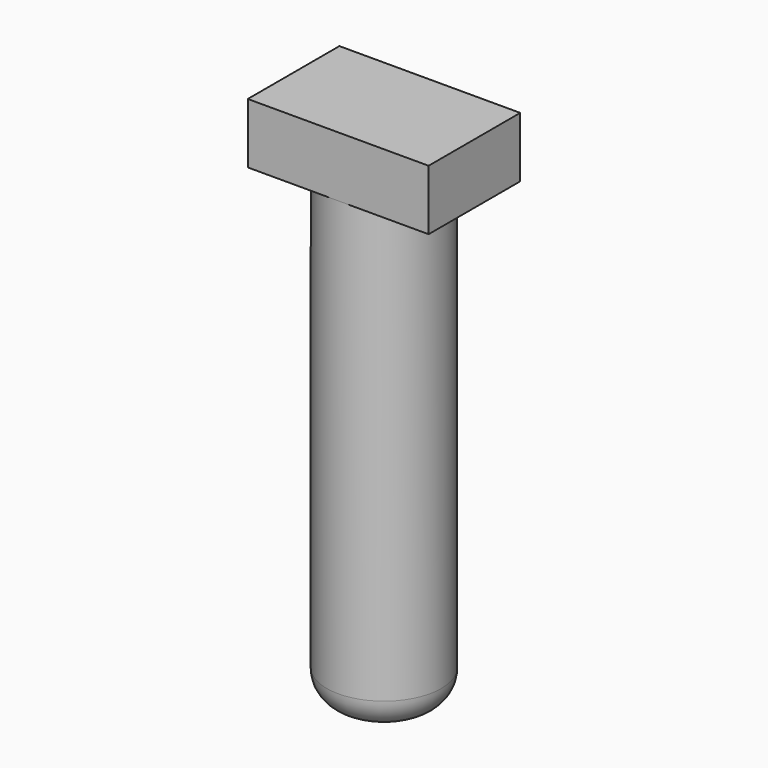
from build123d import *

# Parameters (mm, degrees)
SKETCH029_W  = 6
SKETCH029_H  = 3.8
PAD012_DEPTH = 2
SKETCH033_R  = 1.9
PAD016_DEPTH = 15.4
FILLET012_R  = 1


with BuildPart() as part:
    # Sketch029 → Pad012 (new body)
    with BuildSketch(Plane.XY.offset(13.4)):
        with Locations((1.7, -30.5)):
            Rectangle(SKETCH029_W, SKETCH029_H)
    extrude(amount=PAD012_DEPTH)

    # Sketch033 (on Face5 of Pad012) → Pad016 (join)
    with BuildSketch(Plane(origin=(0, 0, 13.4), x_dir=(1, 0, 0), z_dir=(0, 0, -1))):
        with Locations((1.7, 30.5)):
            Circle(SKETCH033_R)
    extrude(amount=PAD016_DEPTH)

    # Fillet012
    fillet012_edges = [part.edges().sort_by_distance(p)[0] for p in [
        (-0.2, -30.5, -2),
    ]]
    fillet(fillet012_edges, radius=FILLET012_R)


solid = part.part
